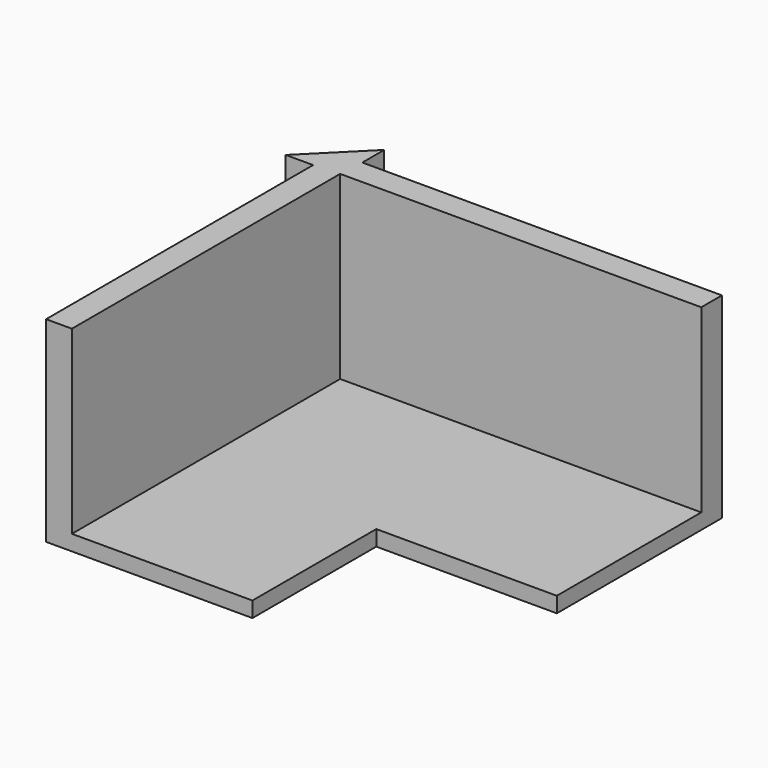
from build123d import *

# Parameters (mm, degrees)
F1_DEPTH = 70
F2_W     = 5
F2_H     = 35
F3_DEPTH = 70
F6_DEPTH = 38


with BuildPart() as f1:
    # F0 (on Front) → F1 (new body)
    with BuildSketch(Plane.XZ):
        Polygon((-55, 38), (-60, 38), (-60, 0), (-20, 0), (-20, 3), (-55, 3), align=None)
    extrude(amount=F1_DEPTH)


with BuildPart() as f3:
    # F2 (on face) → F3 (new body)
    with BuildSketch(Plane.YZ.offset(-55)):
        with Locations((-2.5, 20.5)):
            Rectangle(F2_W, F2_H)
        Polygon((-40, 0), (0, 0), (0, 3), (-5, 3), (-40, 3), align=None)
    extrude(amount=F3_DEPTH)


with BuildPart() as f1_1:
    add(f1.part)

    # F4: union F3
    add(f3.part)

    # F5 (on face) → F6 (join, through all)
    with BuildSketch(Plane(origin=(0, 0, 0), x_dir=(1, 0, 0), z_dir=(0, 0, -1))):
        Polygon((-60, 5.303301), (-65.303301, 5.303301), (-60, 0), align=None)
        Polygon((-54.696699, 0), (-60, 0), (-54.696699, -5.303301), align=None)
    extrude(amount=-F6_DEPTH)


solid = f1_1.part
